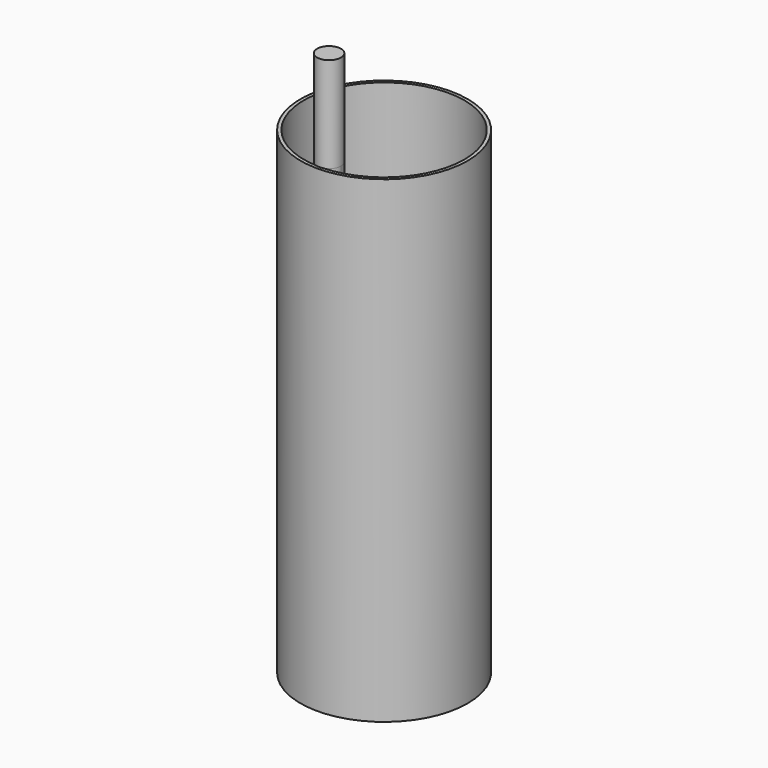
from build123d import *

# Parameters (mm, degrees)
F0_R          = 22.225
F0_R_2        = 21.336
F1_DEPTH      = 127
F2_R          = 3.175
F3_DEPTH      = 25.4
F3_DEPTH_BACK = 25.4


with BuildPart() as f1:
    # F0 (on Top) → F1 (new body)
    with BuildSketch(Plane.XY):
        Circle(F0_R)
        Circle(F0_R_2, mode=Mode.SUBTRACT)
    extrude(amount=-F1_DEPTH)

    # F2 (on face) → F3 (join, two sides)
    with BuildSketch(Plane.XY) as f3_sk:
        with Locations((0, -18.288)):
            Circle(F2_R)
    extrude(amount=F3_DEPTH)
    extrude(f3_sk.sketch, amount=-F3_DEPTH_BACK)


solid = f1.part
